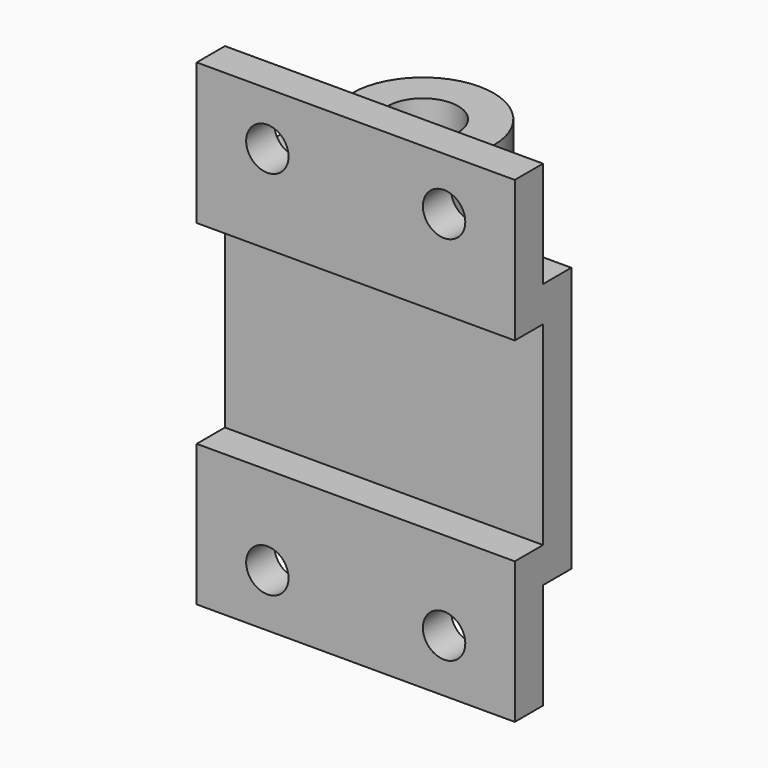
from build123d import *

# Parameters (mm, degrees)
F0_W     = 6
F0_H     = 10
F1_DEPTH = 67.5
F0_R     = 10
F0_W_2   = 7
F0_W_3   = 37
F2_DEPTH = 37.5
F3_DEPTH = 3
F4_W     = 10
F4_H     = 55
F5_DEPTH = 90.001
F6_R     = 6
F7_DEPTH = 75.001


with BuildPart() as f1:
    # F0 (on Top) → F1 (new body, symmetric)
    with BuildSketch(Plane.XY):
        Polygon((0, 10), (0, 0), (90, 0), (90, 10), (53, 10), (47, 10), (40, 10), align=None)
        with Locations((50, 15)):
            Rectangle(F0_W, F0_H)
    extrude(amount=F1_DEPTH, both=True)

    # F0 (on Top) → F2 (join, symmetric)
    with BuildSketch(Plane.XY):
        with BuildLine():
            Line((0, 55), (0, 10))
            Line((0, 10), (40, 10))
            Line((40, 10), (40, 20))
            Line((40, 20), (40, 55))
            ThreePointArc((40, 55), (38.226001, 63.234858), (33.218712, 70.008853))
            ThreePointArc((33.218712, 70.008853), (11.765142, 73.226001), (0, 55))
        make_face()
        with Locations((20, 55)):
            Circle(F0_R, mode=Mode.SUBTRACT)
        with Locations((43.5, 15)):
            Rectangle(F0_W_2, F0_H)
        with Locations((71.5, 15)):
            Rectangle(F0_W_3, F0_H)
        with Locations((50, 15)):
            Rectangle(F0_W, F0_H)
    extrude(amount=F2_DEPTH, both=True)

    # F0 (on Top) → F3 (join, symmetric)
    with BuildSketch(Plane.XY):
        with BuildLine():
            Line((53, 20), (90, 20))
            Line((90, 20), (33.218712, 70.008853))
            ThreePointArc((33.218712, 70.008853), (38.226001, 63.234858), (40, 55))
            Line((40, 55), (40, 20))
            Line((40, 20), (47, 20))
            Line((47, 20), (53, 20))
        make_face()
    extrude(amount=F3_DEPTH, both=True)

    # F4 (on face) → F5 (cut, through all)
    with BuildSketch(Plane.YZ.offset(90)):
        Polygon((10, 67.5), (20, 37.5), (20, 67.5), align=None)
        Polygon((20, -67.5), (20, -37.5), (10, -67.5), align=None)
        with Locations((5, 0)):
            Rectangle(F4_W, F4_H)
    extrude(amount=-F5_DEPTH, mode=Mode.SUBTRACT)

    # F6 (on face) → F7 (cut, through all)
    with BuildSketch(Plane.XZ):
        with Locations((70, 52.5)):
            Circle(F6_R)
        with Locations((20, 52.5)):
            Circle(F6_R)
        with Locations((70, -52.5)):
            Circle(F6_R)
        with Locations((20, -52.5)):
            Circle(F6_R)
    extrude(amount=-F7_DEPTH, mode=Mode.SUBTRACT)


solid = f1.part
